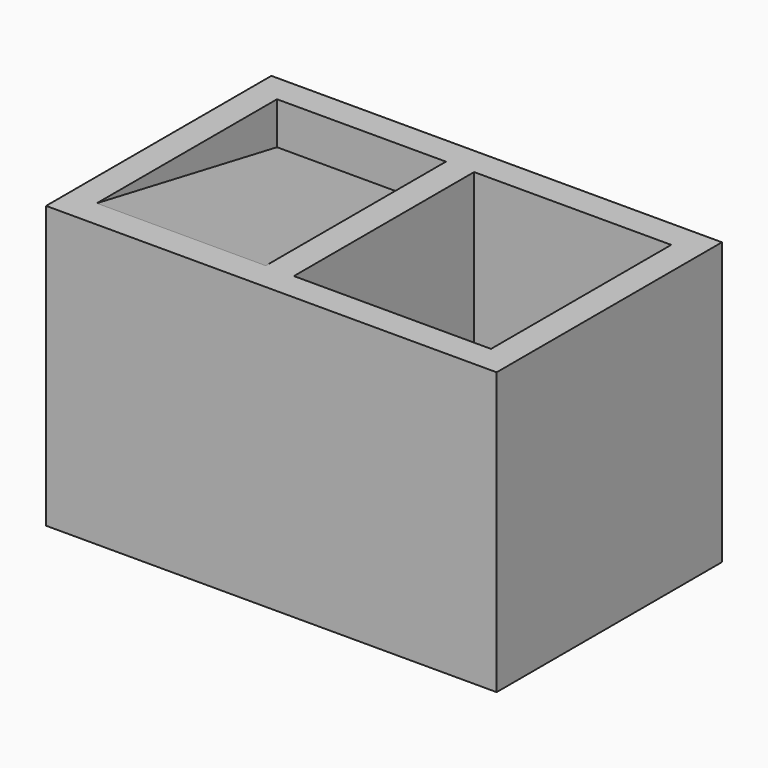
from build123d import *

# Parameters (mm, degrees)
F0_W     = 1600
F0_H     = 1000
F1_DEPTH = 1000
F2_W     = 700
F2_H     = 800
F3_DEPTH = 900
F7_DEPTH = 600
F8_W     = 600.0000000002
F8_H     = 800
F9_DEPTH = 650


with BuildPart() as f1:
    # F0 (on Top) → F1 (new body)
    with BuildSketch(Plane.XY):
        Rectangle(F0_W, F0_H)
    extrude(amount=F1_DEPTH)

    # F2 (on face) → F3 (cut)
    with BuildSketch(Plane.XY.offset(1000)):
        with Locations((350, 0)):
            Rectangle(F2_W, F2_H)
    extrude(amount=-F3_DEPTH, mode=Mode.SUBTRACT)

    # F5 (on offset) → F7 (cut, through all)
    with BuildSketch(Plane(origin=(-700, 0, 0), x_dir=(0, -1, 0), z_dir=(-1, 0, 0))):
        Polygon((-400, 850), (400, 1000), (-400, 1000), align=None)
    extrude(amount=-F7_DEPTH, mode=Mode.SUBTRACT)

    # F8 (on face) → F9 (cut)
    with BuildSketch(Plane(origin=(0, 0, 0), x_dir=(1, 0, 0), z_dir=(0, 0, -1))):
        with Locations((-399.9999999999, 0)):
            Rectangle(F8_W, F8_H)
    extrude(amount=-F9_DEPTH, mode=Mode.SUBTRACT)


solid = f1.part
